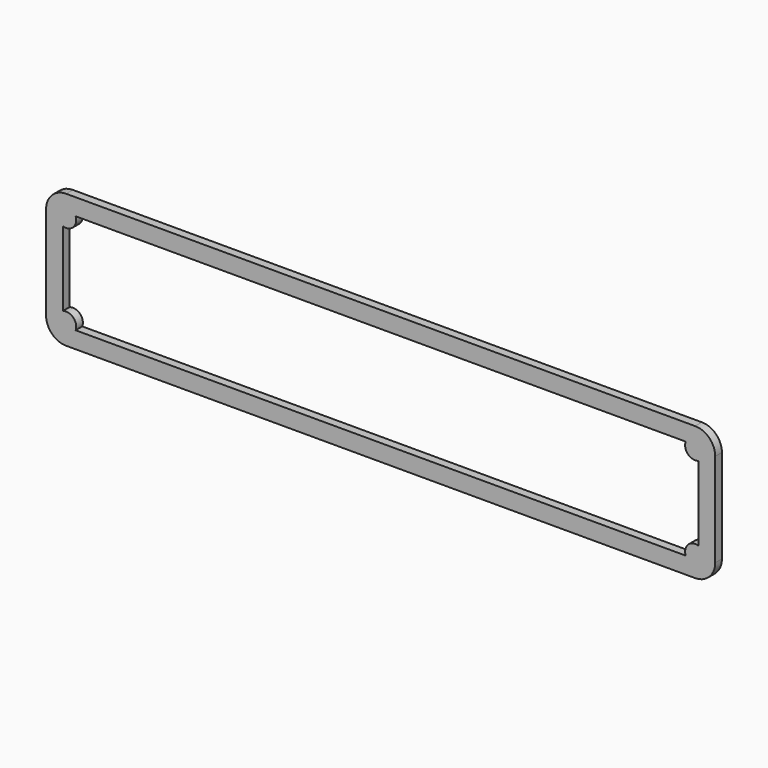
from build123d import *

# Parameters (mm, degrees)
F0_W     = 254
F0_H     = 50.8
F1_DEPTH = 3.175
F2_R     = 7.62
F4_DEPTH = 25.4
F5_R     = 3.81
F6_DEPTH = 3.175


with BuildPart() as f1:
    # F0 (on Front) → F1 (new body)
    with BuildSketch(Plane.XZ):
        Rectangle(F0_W, F0_H)
    extrude(amount=F1_DEPTH)

    # F2
    f2_edges = [f1.edges().sort_by_distance(p)[0] for p in [
        (-127, -1.5875, 25.4),
        (-127, -1.5875, -25.4),
        (127, -1.5875, 25.4),
        (127, -1.5875, -25.4),
    ]]
    fillet(f2_edges, radius=F2_R)

    # F3 (on face) → F4 (cut)
    with BuildSketch(Plane.XZ.offset(3.175)):
        with BuildLine():
            Line((119.38, 19.05), (-119.38, 19.05))
            ThreePointArc((-119.38, 19.05), (-120.278026, 18.678026), (-120.65, 17.78))
            Line((-120.65, 17.78), (-120.65, -17.78))
            ThreePointArc((-120.65, -17.78), (-120.278026, -18.678026), (-119.38, -19.05))
            Line((-119.38, -19.05), (119.38, -19.05))
            ThreePointArc((119.38, -19.05), (120.278026, -18.678026), (120.65, -17.78))
            Line((120.65, -17.78), (120.65, 17.78))
            ThreePointArc((120.65, 17.78), (120.278026, 18.678026), (119.38, 19.05))
        make_face()
    extrude(amount=-F4_DEPTH, mode=Mode.SUBTRACT)

    # F5 (on face) → F6 (join)
    with BuildSketch(Plane.XZ.offset(3.175)):
        with Locations((-119.38, 17.78)):
            Circle(F5_R)
        with Locations((-119.38, -17.78)):
            Circle(F5_R)
        with Locations((119.38, 17.78)):
            Circle(F5_R)
        with Locations((119.38, -17.78)):
            Circle(F5_R)
    extrude(amount=-F6_DEPTH)


solid = f1.part
